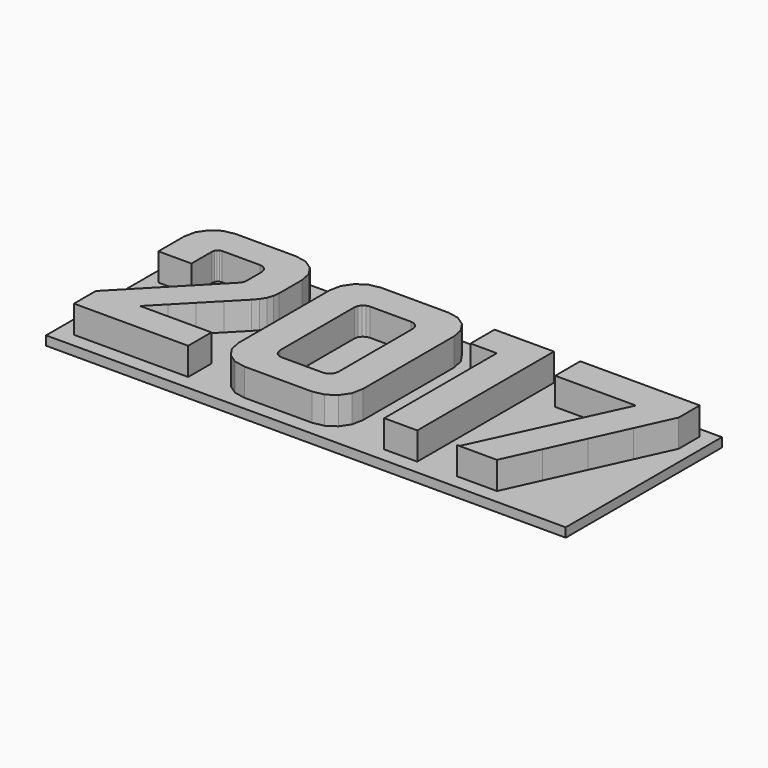
from build123d import *

# Parameters (mm, degrees)
F0_W     = 28.358727
F0_H     = 10.653684
F1_DEPTH = 0.5
F2_DEPTH = 2


with BuildPart() as f1:
    # F0 (on Top) → F1 (new body)
    with BuildSketch(Plane.XY):
        with Locations((0.097342, -0.292027)):
            Rectangle(F0_W, F0_H)
        Polygon((-12.437687, 4.361372), (-11.831026, 4.483848), (-11.000611, 4.483848), (-10.170197, 4.483848), (-9.339782, 4.483848), (-8.509368, 4.483848), (-7.902696, 4.361372), (-7.407652, 4.027382), (-7.073832, 3.532167), (-6.951535, 2.925676), (-6.951535, 2.536048), (-6.951535, 2.14642), (-6.951535, 1.756791), (-6.951535, 1.367163), (-6.990814, 1.035404), (-7.101741, 0.721563), (-7.274166, 0.433052), (-7.497909, 0.17795), (-8.335223, -0.679854), (-9.172527, -1.537487), (-10.009832, -2.395121), (-10.847136, -3.252925), (-9.873236, -3.252925), (-8.899336, -3.252925), (-7.925436, -3.252925), (-6.951535, -3.252925), (-6.951535, -3.649093), (-6.951535, -4.045441), (-6.951535, -4.441788), (-6.951535, -4.837956), (-8.509708, -4.837956), (-10.06788, -4.837956), (-11.626052, -4.837956), (-13.184214, -4.837956), (-13.184214, -4.465558), (-13.184214, -4.093329), (-13.184214, -3.72109), (-13.184214, -3.348692), (-12.114717, -2.248356), (-11.04522, -1.148029), (-9.975723, -0.047703), (-8.906226, 1.052633), (-8.842317, 1.123421), (-8.795299, 1.208348), (-8.76602, 1.300675), (-8.75602, 1.394373), (-8.75602, 1.654125), (-8.75602, 1.913707), (-8.75602, 2.173289), (-8.75602, 2.433041), (-8.792199, 2.615455), (-8.890896, 2.762901), (-9.038341, 2.861768), (-9.220406, 2.897766), (-9.73647, 2.897766), (-10.252354, 2.897766), (-10.768248, 2.897766), (-11.284303, 2.897766), (-11.400399, 2.873657), (-11.495996, 2.807509), (-11.561114, 2.707602), (-11.585053, 2.583236), (-11.585053, 2.231507), (-11.585053, 1.879778), (-11.585053, 1.528038), (-11.585053, 1.176309), (-12.036, 1.176309), (-12.486956, 1.176309), (-12.937902, 1.176309), (-13.388848, 1.176309), (-13.388848, 1.613646), (-13.388848, 2.050992), (-13.388848, 2.488329), (-13.388848, 2.925676), (-13.266552, 3.532167), (-12.932732, 4.027382), align=None, mode=Mode.SUBTRACT)
        Polygon((-4.492161, 4.361372), (-3.88515, 4.483848), (-2.962578, 4.483848), (-2.040186, 4.483848), (-1.117784, 4.483848), (-0.195223, 4.483848), (0.403689, 4.361372), (0.894774, 4.027382), (1.227044, 3.532167), (1.34917, 2.925676), (1.34917, 1.370953), (1.34917, -0.183779), (1.34917, -1.738501), (1.34917, -3.293224), (1.227044, -3.898165), (0.894774, -4.38873), (0.403689, -4.71773), (-0.195223, -4.837956), (-1.117784, -4.837956), (-2.040186, -4.837956), (-2.962578, -4.837956), (-3.88515, -4.837956), (-4.492161, -4.71773), (-4.987716, -4.38873), (-5.321535, -3.898165), (-5.444012, -3.293224), (-5.444012, -1.738501), (-5.444012, -0.183779), (-5.444012, 1.370953), (-5.444012, 2.925676), (-5.321535, 3.532167), (-4.987716, 4.027382), align=None, mode=Mode.SUBTRACT)
        Polygon((2.31067, 4.07372), (2.31067, 4.483848), (3.120586, 4.483848), (3.930501, 4.483848), (4.740416, 4.483848), (5.550341, 4.483848), (5.550341, 2.153309), (5.550341, -0.177059), (5.550341, -2.507428), (5.550341, -4.837956), (5.099215, -4.837956), (4.648099, -4.837956), (4.196973, -4.837956), (3.745856, -4.837956), (3.745856, -2.917725), (3.745856, -0.997314), (3.745856, 0.923097), (3.745856, 2.843338), (3.387057, 2.843338), (3.028258, 2.843338), (2.669459, 2.843338), (2.31067, 2.843338), (2.31067, 3.253466), (2.31067, 3.663593), align=None, mode=Mode.SUBTRACT)
        Polygon((6.986897, 4.056661), (6.986897, 4.483848), (8.616897, 4.483848), (10.246897, 4.483848), (11.876897, 4.483848), (13.506897, 4.483848), (13.506897, 4.125049), (13.506897, 3.76625), (13.506897, 3.407451), (13.506897, 3.048662), (12.604825, 1.077092), (11.702752, -0.894647), (10.80068, -2.866397), (9.898608, -4.837956), (9.355334, -4.837956), (8.812061, -4.837956), (8.268778, -4.837956), (7.725504, -4.837956), (7.759613, -4.831066), (7.793722, -4.824357), (7.827821, -4.817637), (7.86193, -4.810747), (8.743503, -2.914275), (9.625076, -1.017983), (10.506649, 0.878318), (11.388222, 2.77478), (10.287896, 2.77478), (9.187559, 2.77478), (8.087233, 2.77478), (6.986897, 2.77478), (6.986897, 3.201957), (6.986897, 3.629314), align=None, mode=Mode.SUBTRACT)
        Polygon((-3.639527, -1.44809), (-3.639527, -2.719291), (-3.601628, -2.901706), (-3.499481, -3.049151), (-3.351176, -3.148018), (-3.174451, -3.184017), (-2.610849, -3.184017), (-2.047246, -3.184017), (-1.483643, -3.184017), (-0.920051, -3.184017), (-0.737466, -3.148018), (-0.589671, -3.049151), (-0.490454, -2.901706), (-0.454285, -2.719291), (-0.454285, -1.44809), (-0.454285, -0.177059), (-0.454285, 1.093972), (-0.454285, 2.365173), (-0.490454, 2.541557), (-0.589671, 2.689693), (-0.737466, 2.79184), (-0.920051, 2.829899), (-1.483643, 2.829899), (-2.047246, 2.829899), (-2.610849, 2.829899), (-3.174451, 2.829899), (-3.351176, 2.79184), (-3.499481, 2.689693), (-3.601628, 2.541557), (-3.639527, 2.365173), (-3.639527, 1.093972), (-3.639527, -0.177059), align=None)
    extrude(amount=F1_DEPTH)

    # F0 (on Top) → F2 (join)
    with BuildSketch(Plane.XY):
        Polygon((-11.000611, 4.483848), (-11.831026, 4.483848), (-12.437687, 4.361372), (-12.932732, 4.027382), (-13.266552, 3.532167), (-13.388848, 2.925676), (-13.388848, 2.488329), (-13.388848, 2.050992), (-13.388848, 1.613646), (-13.388848, 1.176309), (-12.937902, 1.176309), (-12.486956, 1.176309), (-12.036, 1.176309), (-11.585053, 1.176309), (-11.585053, 1.528038), (-11.585053, 1.879778), (-11.585053, 2.231507), (-11.585053, 2.583236), (-11.561114, 2.707602), (-11.495996, 2.807509), (-11.400399, 2.873657), (-11.284303, 2.897766), (-10.768248, 2.897766), (-10.252354, 2.897766), (-9.73647, 2.897766), (-9.220406, 2.897766), (-9.038341, 2.861768), (-8.890896, 2.762901), (-8.792199, 2.615455), (-8.75602, 2.433041), (-8.75602, 2.173289), (-8.75602, 1.913707), (-8.75602, 1.654125), (-8.75602, 1.394373), (-8.76602, 1.300675), (-8.795299, 1.208348), (-8.842317, 1.123421), (-8.906226, 1.052633), (-9.975723, -0.047703), (-11.04522, -1.148029), (-12.114717, -2.248356), (-13.184214, -3.348692), (-13.184214, -3.72109), (-13.184214, -4.093329), (-13.184214, -4.465558), (-13.184214, -4.837956), (-11.626052, -4.837956), (-10.06788, -4.837956), (-8.509708, -4.837956), (-6.951535, -4.837956), (-6.951535, -4.441788), (-6.951535, -4.045441), (-6.951535, -3.649093), (-6.951535, -3.252925), (-7.925436, -3.252925), (-8.899336, -3.252925), (-9.873236, -3.252925), (-10.847136, -3.252925), (-10.009832, -2.395121), (-9.172527, -1.537487), (-8.335223, -0.679854), (-7.497909, 0.17795), (-7.274166, 0.433052), (-7.101741, 0.721563), (-6.990814, 1.035404), (-6.951535, 1.367163), (-6.951535, 1.756791), (-6.951535, 2.14642), (-6.951535, 2.536048), (-6.951535, 2.925676), (-7.073832, 3.532167), (-7.407652, 4.027382), (-7.902696, 4.361372), (-8.509368, 4.483848), (-9.339782, 4.483848), (-10.170197, 4.483848), align=None)
        Polygon((-2.962578, 4.483848), (-3.88515, 4.483848), (-4.492161, 4.361372), (-4.987716, 4.027382), (-5.321535, 3.532167), (-5.444012, 2.925676), (-5.444012, 1.370953), (-5.444012, -0.183779), (-5.444012, -1.738501), (-5.444012, -3.293224), (-5.321535, -3.898165), (-4.987716, -4.38873), (-4.492161, -4.71773), (-3.88515, -4.837956), (-2.962578, -4.837956), (-2.040186, -4.837956), (-1.117784, -4.837956), (-0.195223, -4.837956), (0.403689, -4.71773), (0.894774, -4.38873), (1.227044, -3.898165), (1.34917, -3.293224), (1.34917, -1.738501), (1.34917, -0.183779), (1.34917, 1.370953), (1.34917, 2.925676), (1.227044, 3.532167), (0.894774, 4.027382), (0.403689, 4.361372), (-0.195223, 4.483848), (-1.117784, 4.483848), (-2.040186, 4.483848), align=None)
        Polygon((-3.601628, -2.901706), (-3.639527, -2.719291), (-3.639527, -1.44809), (-3.639527, -0.177059), (-3.639527, 1.093972), (-3.639527, 2.365173), (-3.601628, 2.541557), (-3.499481, 2.689693), (-3.351176, 2.79184), (-3.174451, 2.829899), (-2.610849, 2.829899), (-2.047246, 2.829899), (-1.483643, 2.829899), (-0.920051, 2.829899), (-0.737466, 2.79184), (-0.589671, 2.689693), (-0.490454, 2.541557), (-0.454285, 2.365173), (-0.454285, 1.093972), (-0.454285, -0.177059), (-0.454285, -1.44809), (-0.454285, -2.719291), (-0.490454, -2.901706), (-0.589671, -3.049151), (-0.737466, -3.148018), (-0.920051, -3.184017), (-1.483643, -3.184017), (-2.047246, -3.184017), (-2.610849, -3.184017), (-3.174451, -3.184017), (-3.351176, -3.148018), (-3.499481, -3.049151), align=None, mode=Mode.SUBTRACT)
        Polygon((3.120586, 4.483848), (2.31067, 4.483848), (2.31067, 4.07372), (2.31067, 3.663593), (2.31067, 3.253466), (2.31067, 2.843338), (2.669459, 2.843338), (3.028258, 2.843338), (3.387057, 2.843338), (3.745856, 2.843338), (3.745856, 0.923097), (3.745856, -0.997314), (3.745856, -2.917725), (3.745856, -4.837956), (4.196973, -4.837956), (4.648099, -4.837956), (5.099215, -4.837956), (5.550341, -4.837956), (5.550341, -2.507428), (5.550341, -0.177059), (5.550341, 2.153309), (5.550341, 4.483848), (4.740416, 4.483848), (3.930501, 4.483848), align=None)
        Polygon((8.616897, 4.483848), (6.986897, 4.483848), (6.986897, 4.056661), (6.986897, 3.629314), (6.986897, 3.201957), (6.986897, 2.77478), (8.087233, 2.77478), (9.187559, 2.77478), (10.287896, 2.77478), (11.388222, 2.77478), (10.506649, 0.878318), (9.625076, -1.017983), (8.743503, -2.914275), (7.86193, -4.810747), (7.827821, -4.817637), (7.793722, -4.824357), (7.759613, -4.831066), (7.725504, -4.837956), (8.268778, -4.837956), (8.812061, -4.837956), (9.355334, -4.837956), (9.898608, -4.837956), (10.80068, -2.866397), (11.702752, -0.894647), (12.604825, 1.077092), (13.506897, 3.048662), (13.506897, 3.407451), (13.506897, 3.76625), (13.506897, 4.125049), (13.506897, 4.483848), (11.876897, 4.483848), (10.246897, 4.483848), align=None)
    extrude(amount=F2_DEPTH)


solid = f1.part
